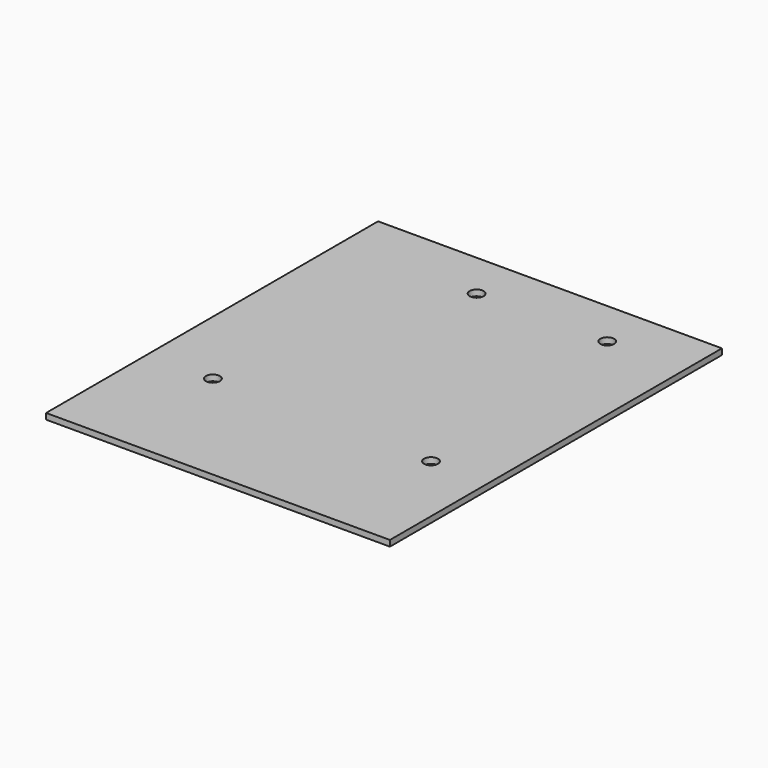
from build123d import *

# Parameters (mm, degrees)
F0_W     = 73.66
F0_H     = 88.9
F1_DEPTH = 1.27
F2_D     = 3


with BuildPart() as f1:
    # F0 (on Top) → F1 (new body)
    with BuildSketch(Plane.XY):
        with Locations((-1.5908373725, -6.4937397122)):
            Rectangle(F0_W, F0_H)
    extrude(amount=F1_DEPTH)

    # F2 (through all)
    with Locations(Plane(origin=(0, 0, 0), x_dir=(1, 0, 0), z_dir=(0, 0, -1))):
        with Locations((-9.1842212971, -27.7992760076), (18.6855387618, -27.9386251478), (22.7955635637, 24.3896059692), (-24.402199313, 23.8067097962)):
            Hole(F2_D / 2)


solid = f1.part
